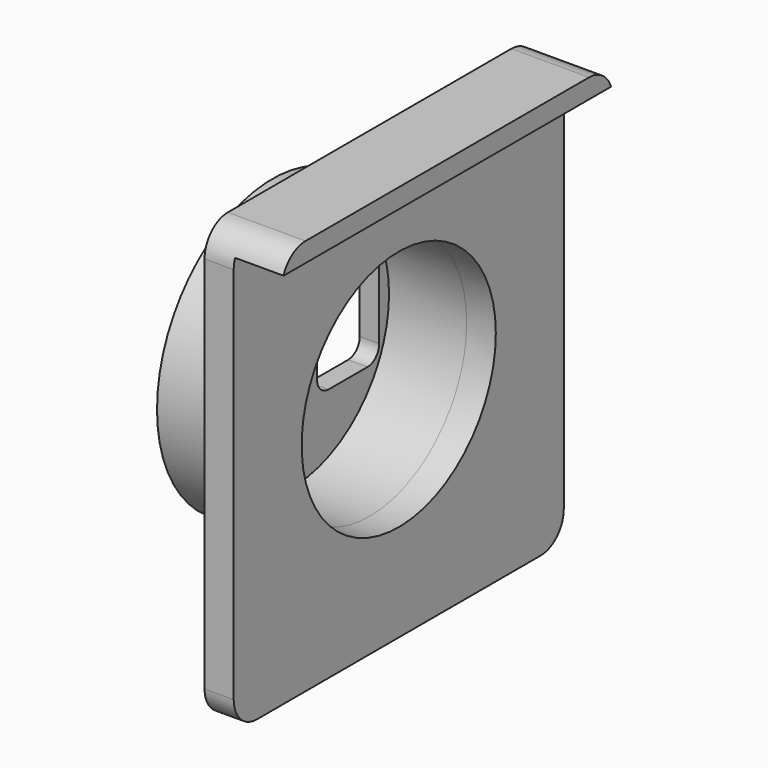
from build123d import *

# Parameters (mm, degrees)
F0_R     = 14.875
F1_DEPTH = 10
F2_W     = 42.5
F2_H     = 45
F2_R     = 14.875
F3_DEPTH = 3
F4_R     = 12.5
F5_DEPTH = 11
F6_W     = 8
F6_H     = 11
F7_DEPTH = 13.001
F8_W     = 42.5
F8_H     = 2
F9_DEPTH = 5
F10_R    = 3
F11_R    = 1.5


with BuildPart() as f1:
    # F0 (on Right) → F1 (new body)
    with BuildSketch(Plane.YZ):
        Circle(F0_R)
    extrude(amount=F1_DEPTH)


with BuildPart() as f3:
    # F2 (on face) → F3 (new body)
    with BuildSketch(Plane.YZ.offset(10)):
        Rectangle(F2_W, F2_H)
        Circle(F2_R, mode=Mode.SUBTRACT)
        Circle(F2_R)
    extrude(amount=F3_DEPTH)


with BuildPart() as f5_tool:
    # F4 (on face) → F5 (new body)
    with BuildSketch(Plane.YZ.offset(13)):
        Circle(F4_R)
    extrude(amount=-F5_DEPTH)


with BuildPart() as f1_1:
    add(f1.part)

    # F5: cut by f5_tool
    add(f5_tool.part, mode=Mode.SUBTRACT)

    # F6 (on face) → F7 (cut, through all)
    with BuildSketch(Plane(origin=(0, 0, 0), x_dir=(0, -1, 0), z_dir=(-1, 0, 0))):
        with Locations((-7.224972, 0)):
            Rectangle(F6_W, F6_H)
    extrude(amount=-F7_DEPTH, mode=Mode.SUBTRACT)

    # F11
    f11_edges = [f1_1.edges().sort_by_distance(p)[0] for p in [
        (1, 11.224972, 5.5),
        (1, 3.224972, 5.5),
        (1, 3.224972, -5.5),
        (1, 11.224972, -5.5),
    ]]
    fillet(f11_edges, radius=F11_R)


with BuildPart() as f3_1:
    add(f3.part)

    # F5: cut by f5_tool
    add(f5_tool.part, mode=Mode.SUBTRACT)

    # F8 (on face) → F9 (join)
    with BuildSketch(Plane.YZ.offset(13)):
        with Locations((0, 21.5)):
            Rectangle(F8_W, F8_H)
    extrude(amount=F9_DEPTH)

    # F10
    f10_edges = [f3_1.edges().sort_by_distance(p)[0] for p in [
        (14, -21.25, 22.5),
        (11.5, -21.25, -22.5),
        (14, 21.25, 22.5),
        (11.5, 21.25, -22.5),
    ]]
    fillet(f10_edges, radius=F10_R)


solid = Compound([f1_1.part, f3_1.part])
